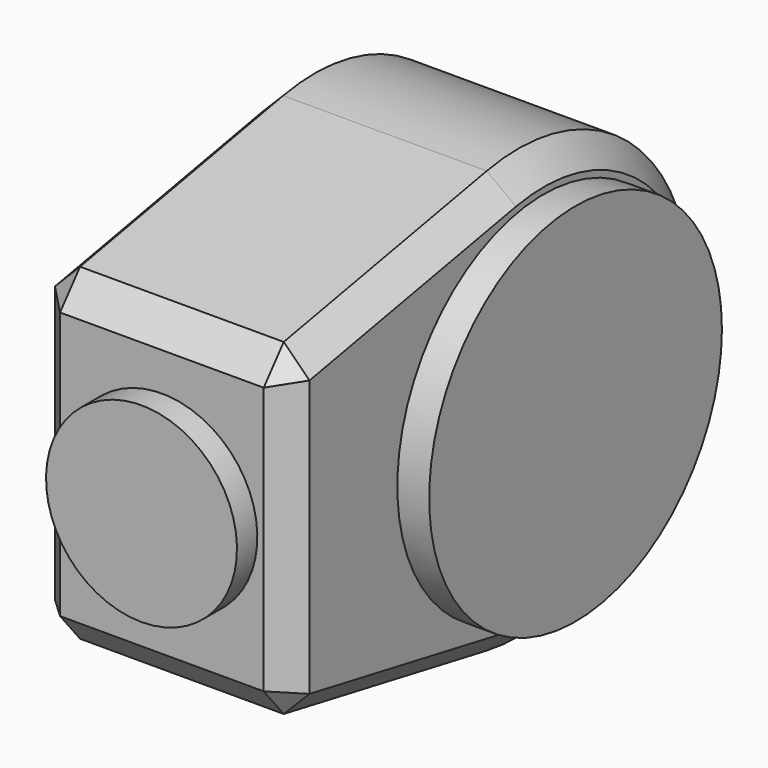
from build123d import *

# Parameters (mm, degrees)
PAD_DEPTH    = 80
SKETCH001_R  = 57.5
PAD001_DEPTH = 10
SKETCH002_R  = 30
PAD002_DEPTH = 8
CHAMFER_SIZE = 8


with BuildPart() as part:
    # Sketch → Pad (new body)
    with BuildSketch(Plane.YZ):
        with BuildLine():
            Line((-12.385516, 66.353967), (-100, 50))
            Line((-100, 50), (-100, -50))
            Line((-100, -50), (-12.385516, -66.353967))
            ThreePointArc((-12.385516, -66.353967), (67.5, 0), (-12.385516, 66.353967))
        make_face()
    extrude(amount=-PAD_DEPTH)

    # Sketch001 (on Face5 of Pad) → Pad001 (join)
    with BuildSketch(Plane.YZ):
        Circle(SKETCH001_R)
    extrude(amount=PAD001_DEPTH)

    # Sketch002 (on Face3 of Pad001) → Pad002 (join)
    with BuildSketch(Plane(origin=(0, -100, 0), x_dir=(0, 0, -1), z_dir=(0, -1, 0))):
        with Locations((0, -40)):
            Circle(SKETCH002_R)
    extrude(amount=PAD002_DEPTH)

    # Chamfer
    chamfer_edges = [part.edges().sort_by_distance(p)[0] for p in [
        (-40, -12.385516, 66.353967),
        (-40, -100, 50),
        (0, -56.192758, 58.176984),
        (-80, -56.192758, 58.176984),
        (-40, -12.385516, -66.353967),
        (0, 67.5, 0),
        (-80, 67.5, 0),
        (-40, -100, -50),
        (0, -56.192758, -58.176984),
        (-80, -56.192758, -58.176984),
        (0, -100, 0),
        (-80, -100, 0),
    ]]
    chamfer(chamfer_edges, length=CHAMFER_SIZE)


solid = part.part
